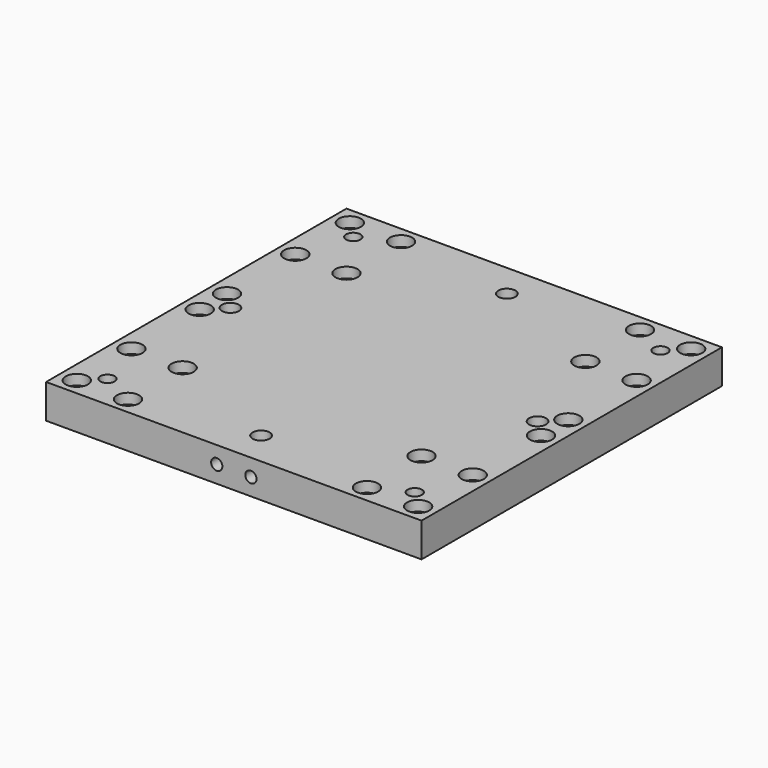
from build123d import *

# Parameters (mm, degrees)
F0_W           = 110
F0_H           = 110
F1_DEPTH       = 10
F2_D           = 3.2
F2_CBORE_D     = 6.5
F2_CBORE_DEPTH = 3
F3_D           = 4.2
F6_D           = 3.3
F6_DEPTH       = 14.1
F6_TIP         = 0.9914200214
F6_ON_F4_D     = 3.3
F6_ON_F4_DEPTH = 14.1
F6_ON_F4_TIP   = 0.9914200214
F7_D           = 5


with BuildPart() as f1:
    # F0 (on Top) → F1 (new body)
    with BuildSketch(Plane.XY):
        Rectangle(F0_W, F0_H)
    extrude(amount=-F1_DEPTH)

    # F2 (through all)
    with Locations(Plane.XY):
        with Locations((-50, 30), (-35, 30), (-35, 50), (-50, 50), (-50, -30), (-35, -30), (-35, -50), (-50, -50), (35, -30), (35, -50), (50, -50), (50, -30), (35, 30), (35, 50), (50, 50), (50, 30), (-50, 5), (-50, -5), (50, 5), (50, -5)):
            CounterBoreHole(F2_D / 2, F2_CBORE_D / 2, F2_CBORE_DEPTH)

    # F3 (through all)
    with Locations(Plane.XY):
        with Locations((-45, 45), (45, 45), (45, -45), (-45, -45)):
            Hole(F3_D / 2)

    # F6
    with Locations(Plane(origin=(0, 55, 0), x_dir=(-1, 0, 0), z_dir=(0, 1, 0))):
        with Locations((-5, -5), (5, -5)):
            Hole(F6_D / 2, depth=F6_DEPTH)
            with Locations((0, 0, -(F6_DEPTH + F6_TIP / 2))):  # 118° drill point
                Cone(0, F6_D / 2, F6_TIP, mode=Mode.SUBTRACT)

    # F6 on F4
    with Locations(Plane.XZ.offset(55)):
        with Locations((-5, -5), (5, -5)):
            Hole(F6_ON_F4_D / 2, depth=F6_ON_F4_DEPTH)
            with Locations((0, 0, -(F6_ON_F4_DEPTH + F6_ON_F4_TIP / 2))):  # 118° drill point
                Cone(0, F6_ON_F4_D / 2, F6_ON_F4_TIP, mode=Mode.SUBTRACT)

    # F7 (through all)
    with Locations(Plane.XY):
        with Locations((0, -45), (45, 0), (0, 45), (-45, 0)):
            Hole(F7_D / 2)


solid = f1.part
